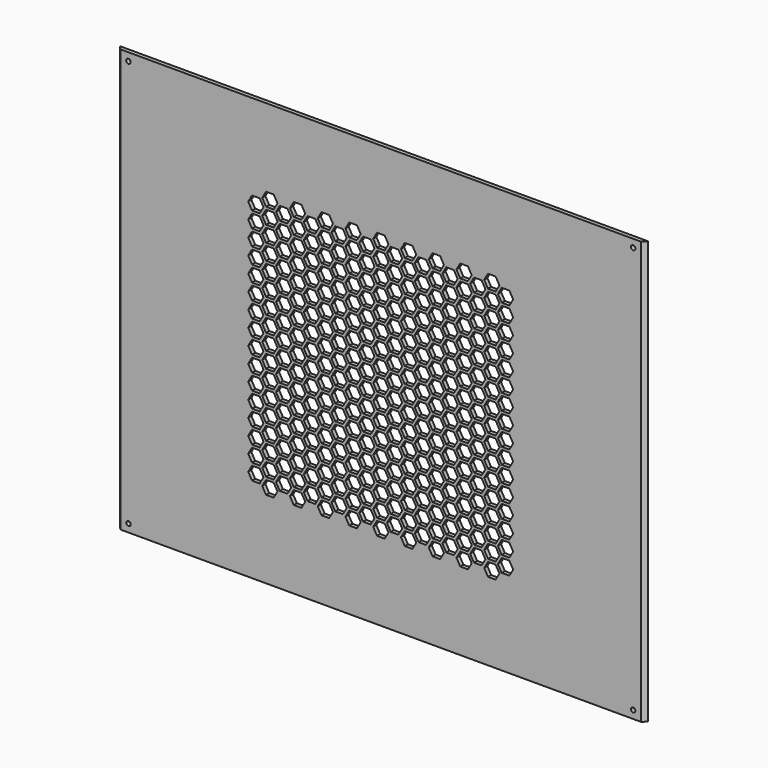
from build123d import *

# Parameters (mm, degrees)
F1_DEPTH = 320
F2_DEPTH = 320
F3_R     = 1.7
F4_DEPTH = 3
F6_DEPTH = 3


with BuildPart() as f1:
    # F0 (on Top) → F1 (new body)
    with BuildSketch(Plane.XY):
        Polygon((140, 1.5), (0, 1.5), (-140, 1.5), (-140, 0), (-140, -1.5), (0, -1.5), (140, -1.5), (140, 0), align=None)
    extrude(amount=-F1_DEPTH)

    # F0 (on Top) → F2 (join)
    with BuildSketch(Plane.XY):
        Polygon((-140, 0), (-140, 1.5), (-200, 1.5), (-197, -1.5), (-140, -1.5), align=None)
        Polygon((200, 1.5), (140, 1.5), (140, 0), (140, -1.5), (197, -1.5), align=None)
    extrude(amount=-F2_DEPTH)

    # F3 (on face) → F4 (cut)
    with BuildSketch(Plane.XZ.offset(1.5)):
        with Locations((191, -6)):
            Circle(F3_R)
        with Locations((191, -314)):
            Circle(F3_R)
        with Locations((-191, -314)):
            Circle(F3_R)
        with Locations((-191, -6)):
            Circle(F3_R)
    extrude(amount=-F4_DEPTH, mode=Mode.SUBTRACT)

    # F5 (on face) → F6 (cut)
    with BuildSketch(Plane.XZ.offset(1.5)):
        Polygon((-81.113249, -69), (-78.226497, -64), (-81.113249, -59), (-86.886751, -59), (-89.773503, -64), (-86.886751, -69), align=None)
        Polygon((-88.834192, -70), (-91.720944, -65), (-97.494447, -65), (-100.381198, -70), (-97.494447, -75), (-91.720944, -75), align=None)
        Polygon((-81.113249, -81), (-78.226497, -76), (-81.113249, -71), (-86.886751, -71), (-89.773503, -76), (-86.886751, -81), align=None)
        Polygon((-88.834192, -82), (-91.720944, -77), (-97.494447, -77), (-100.381198, -82), (-97.494447, -87), (-91.720944, -87), align=None)
        Polygon((-67.834192, -70), (-70.720944, -65), (-76.494447, -65), (-79.381198, -70), (-76.494447, -75), (-70.720944, -75), align=None)
        Polygon((65.886751, -93), (68.773503, -88), (65.886751, -83), (60.113249, -83), (57.226497, -88), (60.113249, -93), align=None)
        Polygon((100.165808, -202), (97.279056, -197), (91.505553, -197), (88.618802, -202), (91.505553, -207), (97.279056, -207), align=None)
        Polygon((23.886751, -81), (26.773503, -76), (23.886751, -71), (18.113249, -71), (15.226497, -76), (18.113249, -81), align=None)
        Polygon((-67.834192, -94), (-70.720944, -89), (-76.494447, -89), (-79.381198, -94), (-76.494447, -99), (-70.720944, -99), align=None)
        Polygon((-60.113249, -189), (-57.226497, -184), (-60.113249, -179), (-65.886751, -179), (-68.773503, -184), (-65.886751, -189), align=None)
        Polygon((-67.834192, -190), (-70.720944, -185), (-76.494447, -185), (-79.381198, -190), (-76.494447, -195), (-70.720944, -195), align=None)
        Polygon((-18.113249, -201), (-15.226497, -196), (-18.113249, -191), (-23.886751, -191), (-26.773503, -196), (-23.886751, -201), align=None)
        Polygon((-88.834192, -106), (-91.720944, -101), (-97.494447, -101), (-100.381198, -106), (-97.494447, -111), (-91.720944, -111), align=None)
        Polygon((-25.834192, -106), (-28.720944, -101), (-34.494447, -101), (-37.381198, -106), (-34.494447, -111), (-28.720944, -111), align=None)
        Polygon((-25.834192, -202), (-28.720944, -197), (-34.494447, -197), (-37.381198, -202), (-34.494447, -207), (-28.720944, -207), align=None)
        Polygon((23.886751, -213), (26.773503, -208), (23.886751, -203), (18.113249, -203), (15.226497, -208), (18.113249, -213), align=None)
        Polygon((-60.113249, -93), (-57.226497, -88), (-60.113249, -83), (-65.886751, -83), (-68.773503, -88), (-65.886751, -93), align=None)
        Polygon((16.165808, -118), (13.279056, -113), (7.505553, -113), (4.618802, -118), (7.505553, -123), (13.279056, -123), align=None)
        Polygon((16.165808, -214), (13.279056, -209), (7.505553, -209), (4.618802, -214), (7.505553, -219), (13.279056, -219), align=None)
        Polygon((-18.113249, -105), (-15.226497, -100), (-18.113249, -95), (-23.886751, -95), (-26.773503, -100), (-23.886751, -105), align=None)
        Polygon((65.886751, -225), (68.773503, -220), (65.886751, -215), (60.113249, -215), (57.226497, -220), (60.113249, -225), align=None)
        Polygon((58.165808, -226), (55.279056, -221), (49.505553, -221), (46.618802, -226), (49.505553, -231), (55.279056, -231), align=None)
        Polygon((58.165808, -130), (55.279056, -125), (49.505553, -125), (46.618802, -130), (49.505553, -135), (55.279056, -135), align=None)
        Polygon((23.886751, -117), (26.773503, -112), (23.886751, -107), (18.113249, -107), (15.226497, -112), (18.113249, -117), align=None)
        Polygon((65.886751, -129), (68.773503, -124), (65.886751, -119), (60.113249, -119), (57.226497, -124), (60.113249, -129), align=None)
        Polygon((100.165808, -238), (97.279056, -233), (91.505553, -233), (88.618802, -238), (91.505553, -243), (97.279056, -243), align=None)
        Polygon((-39.113249, -93), (-36.226497, -88), (-39.113249, -83), (-44.886751, -83), (-47.773503, -88), (-44.886751, -93), align=None)
        Polygon((-4.834192, -202), (-7.720944, -197), (-13.494447, -197), (-16.381198, -202), (-13.494447, -207), (-7.720944, -207), align=None)
        Polygon((-39.113249, -189), (-36.226497, -184), (-39.113249, -179), (-44.886751, -179), (-47.773503, -184), (-44.886751, -189), align=None)
        Polygon((-46.834192, -94), (-49.720944, -89), (-55.494447, -89), (-58.381198, -94), (-55.494447, -99), (-49.720944, -99), align=None)
        Polygon((37.165808, -214), (34.279056, -209), (28.505553, -209), (25.618802, -214), (28.505553, -219), (34.279056, -219), align=None)
        Polygon((2.886751, -105), (5.773503, -100), (2.886751, -95), (-2.886751, -95), (-5.773503, -100), (-2.886751, -105), align=None)
        Polygon((-4.834192, -106), (-7.720944, -101), (-13.494447, -101), (-16.381198, -106), (-13.494447, -111), (-7.720944, -111), align=None)
        Polygon((2.886751, -201), (5.773503, -196), (2.886751, -191), (-2.886751, -191), (-5.773503, -196), (-2.886751, -201), align=None)
        Polygon((79.165808, -226), (76.279056, -221), (70.505553, -221), (67.618802, -226), (70.505553, -231), (76.279056, -231), align=None)
        Polygon((44.886751, -117), (47.773503, -112), (44.886751, -107), (39.113249, -107), (36.226497, -112), (39.113249, -117), align=None)
        Polygon((44.886751, -213), (47.773503, -208), (44.886751, -203), (39.113249, -203), (36.226497, -208), (39.113249, -213), align=None)
        Polygon((37.165808, -118), (34.279056, -113), (28.505553, -113), (25.618802, -118), (28.505553, -123), (34.279056, -123), align=None)
        Polygon((86.886751, -225), (89.773503, -220), (86.886751, -215), (81.113249, -215), (78.226497, -220), (81.113249, -225), align=None)
        Polygon((79.165808, -130), (76.279056, -125), (70.505553, -125), (67.618802, -130), (70.505553, -135), (76.279056, -135), align=None)
        Polygon((-46.834192, -190), (-49.720944, -185), (-55.494447, -185), (-58.381198, -190), (-55.494447, -195), (-49.720944, -195), align=None)
        Polygon((-81.113249, -177), (-78.226497, -172), (-81.113249, -167), (-86.886751, -167), (-89.773503, -172), (-86.886751, -177), align=None)
        Polygon((-88.834192, -94), (-91.720944, -89), (-97.494447, -89), (-100.381198, -94), (-97.494447, -99), (-91.720944, -99), align=None)
        Polygon((23.886751, -201), (26.773503, -196), (23.886751, -191), (18.113249, -191), (15.226497, -196), (18.113249, -201), align=None)
        Polygon((16.165808, -106), (13.279056, -101), (7.505553, -101), (4.618802, -106), (7.505553, -111), (13.279056, -111), align=None)
        Polygon((16.165808, -202), (13.279056, -197), (7.505553, -197), (4.618802, -202), (7.505553, -207), (13.279056, -207), align=None)
        Polygon((-18.113249, -93), (-15.226497, -88), (-18.113249, -83), (-23.886751, -83), (-26.773503, -88), (-23.886751, -93), align=None)
        Polygon((65.886751, -213), (68.773503, -208), (65.886751, -203), (60.113249, -203), (57.226497, -208), (60.113249, -213), align=None)
        Polygon((58.165808, -214), (55.279056, -209), (49.505553, -209), (46.618802, -214), (49.505553, -219), (55.279056, -219), align=None)
        Polygon((58.165808, -118), (55.279056, -113), (49.505553, -113), (46.618802, -118), (49.505553, -123), (55.279056, -123), align=None)
        Polygon((23.886751, -105), (26.773503, -100), (23.886751, -95), (18.113249, -95), (15.226497, -100), (18.113249, -105), align=None)
        Polygon((100.165808, -226), (97.279056, -221), (91.505553, -221), (88.618802, -226), (91.505553, -231), (97.279056, -231), align=None)
        Polygon((65.886751, -117), (68.773503, -112), (65.886751, -107), (60.113249, -107), (57.226497, -112), (60.113249, -117), align=None)
        Polygon((-60.113249, -177), (-57.226497, -172), (-60.113249, -167), (-65.886751, -167), (-68.773503, -172), (-65.886751, -177), align=None)
        Polygon((-67.834192, -82), (-70.720944, -77), (-76.494447, -77), (-79.381198, -82), (-76.494447, -87), (-70.720944, -87), align=None)
        Polygon((-67.834192, -178), (-70.720944, -173), (-76.494447, -173), (-79.381198, -178), (-76.494447, -183), (-70.720944, -183), align=None)
        Polygon((-18.113249, -189), (-15.226497, -184), (-18.113249, -179), (-23.886751, -179), (-26.773503, -184), (-23.886751, -189), align=None)
        Polygon((-25.834192, -94), (-28.720944, -89), (-34.494447, -89), (-37.381198, -94), (-34.494447, -99), (-28.720944, -99), align=None)
        Polygon((-60.113249, -81), (-57.226497, -76), (-60.113249, -71), (-65.886751, -71), (-68.773503, -76), (-65.886751, -81), align=None)
        Polygon((-25.834192, -190), (-28.720944, -185), (-34.494447, -185), (-37.381198, -190), (-34.494447, -195), (-28.720944, -195), align=None)
        Polygon((79.165808, -214), (76.279056, -209), (70.505553, -209), (67.618802, -214), (70.505553, -219), (76.279056, -219), align=None)
        Polygon((44.886751, -105), (47.773503, -100), (44.886751, -95), (39.113249, -95), (36.226497, -100), (39.113249, -105), align=None)
        Polygon((44.886751, -201), (47.773503, -196), (44.886751, -191), (39.113249, -191), (36.226497, -196), (39.113249, -201), align=None)
        Polygon((37.165808, -106), (34.279056, -101), (28.505553, -101), (25.618802, -106), (28.505553, -111), (34.279056, -111), align=None)
        Polygon((86.886751, -213), (89.773503, -208), (86.886751, -203), (81.113249, -203), (78.226497, -208), (81.113249, -213), align=None)
        Polygon((79.165808, -118), (76.279056, -113), (70.505553, -113), (67.618802, -118), (70.505553, -123), (76.279056, -123), align=None)
        Polygon((-46.834192, -178), (-49.720944, -173), (-55.494447, -173), (-58.381198, -178), (-55.494447, -183), (-49.720944, -183), align=None)
        Polygon((-81.113249, -165), (-78.226497, -160), (-81.113249, -155), (-86.886751, -155), (-89.773503, -160), (-86.886751, -165), align=None)
        Polygon((-4.834192, -190), (-7.720944, -185), (-13.494447, -185), (-16.381198, -190), (-13.494447, -195), (-7.720944, -195), align=None)
        Polygon((-39.113249, -81), (-36.226497, -76), (-39.113249, -71), (-44.886751, -71), (-47.773503, -76), (-44.886751, -81), align=None)
        Polygon((-39.113249, -177), (-36.226497, -172), (-39.113249, -167), (-44.886751, -167), (-47.773503, -172), (-44.886751, -177), align=None)
        Polygon((-46.834192, -82), (-49.720944, -77), (-55.494447, -77), (-58.381198, -82), (-55.494447, -87), (-49.720944, -87), align=None)
        Polygon((37.165808, -202), (34.279056, -197), (28.505553, -197), (25.618802, -202), (28.505553, -207), (34.279056, -207), align=None)
        Polygon((2.886751, -93), (5.773503, -88), (2.886751, -83), (-2.886751, -83), (-5.773503, -88), (-2.886751, -93), align=None)
        Polygon((2.886751, -189), (5.773503, -184), (2.886751, -179), (-2.886751, -179), (-5.773503, -184), (-2.886751, -189), align=None)
        Polygon((-4.834192, -94), (-7.720944, -89), (-13.494447, -89), (-16.381198, -94), (-13.494447, -99), (-7.720944, -99), align=None)
        Polygon((65.886751, -105), (68.773503, -100), (65.886751, -95), (60.113249, -95), (57.226497, -100), (60.113249, -105), align=None)
        Polygon((100.165808, -214), (97.279056, -209), (91.505553, -209), (88.618802, -214), (91.505553, -219), (97.279056, -219), align=None)
        Polygon((-88.834192, -250), (-91.720944, -245), (-97.494447, -245), (-100.381198, -250), (-97.494447, -255), (-91.720944, -255), align=None)
        Polygon((-60.113249, -165), (-57.226497, -160), (-60.113249, -155), (-65.886751, -155), (-68.773503, -160), (-65.886751, -165), align=None)
        Polygon((-67.834192, -166), (-70.720944, -161), (-76.494447, -161), (-79.381198, -166), (-76.494447, -171), (-70.720944, -171), align=None)
        Polygon((-81.113249, -261), (-78.226497, -256), (-81.113249, -251), (-86.886751, -251), (-89.773503, -256), (-86.886751, -261), align=None)
        Polygon((-25.834192, -82), (-28.720944, -77), (-34.494447, -77), (-37.381198, -82), (-34.494447, -87), (-28.720944, -87), align=None)
        Polygon((-18.113249, -177), (-15.226497, -172), (-18.113249, -167), (-23.886751, -167), (-26.773503, -172), (-23.886751, -177), align=None)
        Polygon((-25.834192, -178), (-28.720944, -173), (-34.494447, -173), (-37.381198, -178), (-34.494447, -183), (-28.720944, -183), align=None)
        Polygon((-60.113249, -69), (-57.226497, -64), (-60.113249, -59), (-65.886751, -59), (-68.773503, -64), (-65.886751, -69), align=None)
        Polygon((23.886751, -189), (26.773503, -184), (23.886751, -179), (18.113249, -179), (15.226497, -184), (18.113249, -189), align=None)
        Polygon((16.165808, -94), (13.279056, -89), (7.505553, -89), (4.618802, -94), (7.505553, -99), (13.279056, -99), align=None)
        Polygon((16.165808, -190), (13.279056, -185), (7.505553, -185), (4.618802, -190), (7.505553, -195), (13.279056, -195), align=None)
        Polygon((-18.113249, -81), (-15.226497, -76), (-18.113249, -71), (-23.886751, -71), (-26.773503, -76), (-23.886751, -81), align=None)
        Polygon((65.886751, -201), (68.773503, -196), (65.886751, -191), (60.113249, -191), (57.226497, -196), (60.113249, -201), align=None)
        Polygon((58.165808, -202), (55.279056, -197), (49.505553, -197), (46.618802, -202), (49.505553, -207), (55.279056, -207), align=None)
        Polygon((58.165808, -106), (55.279056, -101), (49.505553, -101), (46.618802, -106), (49.505553, -111), (55.279056, -111), align=None)
        Polygon((-88.834192, -238), (-91.720944, -233), (-97.494447, -233), (-100.381198, -238), (-97.494447, -243), (-91.720944, -243), align=None)
        Polygon((23.886751, -93), (26.773503, -88), (23.886751, -83), (18.113249, -83), (15.226497, -88), (18.113249, -93), align=None)
        Polygon((-46.834192, -166), (-49.720944, -161), (-55.494447, -161), (-58.381198, -166), (-55.494447, -171), (-49.720944, -171), align=None)
        Polygon((-60.113249, -261), (-57.226497, -256), (-60.113249, -251), (-65.886751, -251), (-68.773503, -256), (-65.886751, -261), align=None)
        Polygon((-81.113249, -153), (-78.226497, -148), (-81.113249, -143), (-86.886751, -143), (-89.773503, -148), (-86.886751, -153), align=None)
        Polygon((65.886751, -189), (68.773503, -184), (65.886751, -179), (60.113249, -179), (57.226497, -184), (60.113249, -189), align=None)
        Polygon((58.165808, -190), (55.279056, -185), (49.505553, -185), (46.618802, -190), (49.505553, -195), (55.279056, -195), align=None)
        Polygon((58.165808, -94), (55.279056, -89), (49.505553, -89), (46.618802, -94), (49.505553, -99), (55.279056, -99), align=None)
        Polygon((-18.113249, -69), (-15.226497, -64), (-18.113249, -59), (-23.886751, -59), (-26.773503, -64), (-23.886751, -69), align=None)
        Polygon((16.165808, -82), (13.279056, -77), (7.505553, -77), (4.618802, -82), (7.505553, -87), (13.279056, -87), align=None)
        Polygon((16.165808, -178), (13.279056, -173), (7.505553, -173), (4.618802, -178), (7.505553, -183), (13.279056, -183), align=None)
        Polygon((23.886751, -177), (26.773503, -172), (23.886751, -167), (18.113249, -167), (15.226497, -172), (18.113249, -177), align=None)
        Polygon((-39.113249, -261), (-36.226497, -256), (-39.113249, -251), (-44.886751, -251), (-47.773503, -256), (-44.886751, -261), align=None)
        Polygon((-25.834192, -166), (-28.720944, -161), (-34.494447, -161), (-37.381198, -166), (-34.494447, -171), (-28.720944, -171), align=None)
        Polygon((-25.834192, -70), (-28.720944, -65), (-34.494447, -65), (-37.381198, -70), (-34.494447, -75), (-28.720944, -75), align=None)
        Polygon((-18.113249, -165), (-15.226497, -160), (-18.113249, -155), (-23.886751, -155), (-26.773503, -160), (-23.886751, -165), align=None)
        Polygon((-67.834192, -250), (-70.720944, -245), (-76.494447, -245), (-79.381198, -250), (-76.494447, -255), (-70.720944, -255), align=None)
        Polygon((-67.834192, -154), (-70.720944, -149), (-76.494447, -149), (-79.381198, -154), (-76.494447, -159), (-70.720944, -159), align=None)
        Polygon((-60.113249, -249), (-57.226497, -244), (-60.113249, -239), (-65.886751, -239), (-68.773503, -244), (-65.886751, -249), align=None)
        Polygon((-60.113249, -153), (-57.226497, -148), (-60.113249, -143), (-65.886751, -143), (-68.773503, -148), (-65.886751, -153), align=None)
        Polygon((-88.834192, -226), (-91.720944, -221), (-97.494447, -221), (-100.381198, -226), (-97.494447, -231), (-91.720944, -231), align=None)
        Polygon((79.165808, -106), (76.279056, -101), (70.505553, -101), (67.618802, -106), (70.505553, -111), (76.279056, -111), align=None)
        Polygon((86.886751, -201), (89.773503, -196), (86.886751, -191), (81.113249, -191), (78.226497, -196), (81.113249, -201), align=None)
        Polygon((44.886751, -93), (47.773503, -88), (44.886751, -83), (39.113249, -83), (36.226497, -88), (39.113249, -93), align=None)
        Polygon((37.165808, -94), (34.279056, -89), (28.505553, -89), (25.618802, -94), (28.505553, -99), (34.279056, -99), align=None)
        Polygon((44.886751, -189), (47.773503, -184), (44.886751, -179), (39.113249, -179), (36.226497, -184), (39.113249, -189), align=None)
        Polygon((79.165808, -202), (76.279056, -197), (70.505553, -197), (67.618802, -202), (70.505553, -207), (76.279056, -207), align=None)
        Polygon((-4.834192, -82), (-7.720944, -77), (-13.494447, -77), (-16.381198, -82), (-13.494447, -87), (-7.720944, -87), align=None)
        Polygon((2.886751, -81), (5.773503, -76), (2.886751, -71), (-2.886751, -71), (-5.773503, -76), (-2.886751, -81), align=None)
        Polygon((2.886751, -177), (5.773503, -172), (2.886751, -167), (-2.886751, -167), (-5.773503, -172), (-2.886751, -177), align=None)
        Polygon((37.165808, -190), (34.279056, -185), (28.505553, -185), (25.618802, -190), (28.505553, -195), (34.279056, -195), align=None)
        Polygon((-39.113249, -69), (-36.226497, -64), (-39.113249, -59), (-44.886751, -59), (-47.773503, -64), (-44.886751, -69), align=None)
        Polygon((-4.834192, -178), (-7.720944, -173), (-13.494447, -173), (-16.381198, -178), (-13.494447, -183), (-7.720944, -183), align=None)
        Polygon((-46.834192, -70), (-49.720944, -65), (-55.494447, -65), (-58.381198, -70), (-55.494447, -75), (-49.720944, -75), align=None)
        Polygon((-39.113249, -165), (-36.226497, -160), (-39.113249, -155), (-44.886751, -155), (-47.773503, -160), (-44.886751, -165), align=None)
        Polygon((-81.113249, -249), (-78.226497, -244), (-81.113249, -239), (-86.886751, -239), (-89.773503, -244), (-86.886751, -249), align=None)
        Polygon((-81.113249, -141), (-78.226497, -136), (-81.113249, -131), (-86.886751, -131), (-89.773503, -136), (-86.886751, -141), align=None)
        Polygon((-81.113249, -237), (-78.226497, -232), (-81.113249, -227), (-86.886751, -227), (-89.773503, -232), (-86.886751, -237), align=None)
        Polygon((-88.834192, -214), (-91.720944, -209), (-97.494447, -209), (-100.381198, -214), (-97.494447, -219), (-91.720944, -219), align=None)
        Polygon((-39.113249, -153), (-36.226497, -148), (-39.113249, -143), (-44.886751, -143), (-47.773503, -148), (-44.886751, -153), align=None)
        Polygon((-39.113249, -249), (-36.226497, -244), (-39.113249, -239), (-44.886751, -239), (-47.773503, -244), (-44.886751, -249), align=None)
        Polygon((-46.834192, -154), (-49.720944, -149), (-55.494447, -149), (-58.381198, -154), (-55.494447, -159), (-49.720944, -159), align=None)
        Polygon((-46.834192, -250), (-49.720944, -245), (-55.494447, -245), (-58.381198, -250), (-55.494447, -255), (-49.720944, -255), align=None)
        Polygon((-4.834192, -70), (-7.720944, -65), (-13.494447, -65), (-16.381198, -70), (-13.494447, -75), (-7.720944, -75), align=None)
        Polygon((-4.834192, -166), (-7.720944, -161), (-13.494447, -161), (-16.381198, -166), (-13.494447, -171), (-7.720944, -171), align=None)
        Polygon((-18.113249, -261), (-15.226497, -256), (-18.113249, -251), (-23.886751, -251), (-26.773503, -256), (-23.886751, -261), align=None)
        Polygon((44.886751, -177), (47.773503, -172), (44.886751, -167), (39.113249, -167), (36.226497, -172), (39.113249, -177), align=None)
        Polygon((37.165808, -82), (34.279056, -77), (28.505553, -77), (25.618802, -82), (28.505553, -87), (34.279056, -87), align=None)
        Polygon((2.886751, -69), (5.773503, -64), (2.886751, -59), (-2.886751, -59), (-5.773503, -64), (-2.886751, -69), align=None)
        Polygon((37.165808, -178), (34.279056, -173), (28.505553, -173), (25.618802, -178), (28.505553, -183), (34.279056, -183), align=None)
        Polygon((86.886751, -189), (89.773503, -184), (86.886751, -179), (81.113249, -179), (78.226497, -184), (81.113249, -189), align=None)
        Polygon((79.165808, -94), (76.279056, -89), (70.505553, -89), (67.618802, -94), (70.505553, -99), (76.279056, -99), align=None)
        Polygon((79.165808, -190), (76.279056, -185), (70.505553, -185), (67.618802, -190), (70.505553, -195), (76.279056, -195), align=None)
        Polygon((44.886751, -81), (47.773503, -76), (44.886751, -71), (39.113249, -71), (36.226497, -76), (39.113249, -81), align=None)
        Polygon((-67.834192, -142), (-70.720944, -137), (-76.494447, -137), (-79.381198, -142), (-76.494447, -147), (-70.720944, -147), align=None)
        Polygon((-67.834192, -238), (-70.720944, -233), (-76.494447, -233), (-79.381198, -238), (-76.494447, -243), (-70.720944, -243), align=None)
        Polygon((-88.834192, -202), (-91.720944, -197), (-97.494447, -197), (-100.381198, -202), (-97.494447, -207), (-91.720944, -207), align=None)
        Polygon((-25.834192, -154), (-28.720944, -149), (-34.494447, -149), (-37.381198, -154), (-34.494447, -159), (-28.720944, -159), align=None)
        Polygon((-25.834192, -250), (-28.720944, -245), (-34.494447, -245), (-37.381198, -250), (-34.494447, -255), (-28.720944, -255), align=None)
        Polygon((-60.113249, -141), (-57.226497, -136), (-60.113249, -131), (-65.886751, -131), (-68.773503, -136), (-65.886751, -141), align=None)
        Polygon((-60.113249, -237), (-57.226497, -232), (-60.113249, -227), (-65.886751, -227), (-68.773503, -232), (-65.886751, -237), align=None)
        Polygon((16.165808, -166), (13.279056, -161), (7.505553, -161), (4.618802, -166), (7.505553, -171), (13.279056, -171), align=None)
        Polygon((2.886751, -261), (5.773503, -256), (2.886751, -251), (-2.886751, -251), (-5.773503, -256), (-2.886751, -261), align=None)
        Polygon((58.165808, -178), (55.279056, -173), (49.505553, -173), (46.618802, -178), (49.505553, -183), (55.279056, -183), align=None)
        Polygon((-18.113249, -153), (-15.226497, -148), (-18.113249, -143), (-23.886751, -143), (-26.773503, -148), (-23.886751, -153), align=None)
        Polygon((23.886751, -69), (26.773503, -64), (23.886751, -59), (18.113249, -59), (15.226497, -64), (18.113249, -69), align=None)
        Polygon((-18.113249, -249), (-15.226497, -244), (-18.113249, -239), (-23.886751, -239), (-26.773503, -244), (-23.886751, -249), align=None)
        Polygon((23.886751, -165), (26.773503, -160), (23.886751, -155), (18.113249, -155), (15.226497, -160), (18.113249, -165), align=None)
        Polygon((16.165808, -70), (13.279056, -65), (7.505553, -65), (4.618802, -70), (7.505553, -75), (13.279056, -75), align=None)
        Polygon((100.165808, -190), (97.279056, -185), (91.505553, -185), (88.618802, -190), (91.505553, -195), (97.279056, -195), align=None)
        Polygon((65.886751, -81), (68.773503, -76), (65.886751, -71), (60.113249, -71), (57.226497, -76), (60.113249, -81), align=None)
        Polygon((58.165808, -82), (55.279056, -77), (49.505553, -77), (46.618802, -82), (49.505553, -87), (55.279056, -87), align=None)
        Polygon((65.886751, -177), (68.773503, -172), (65.886751, -167), (60.113249, -167), (57.226497, -172), (60.113249, -177), align=None)
        Polygon((-81.113249, -129), (-78.226497, -124), (-81.113249, -119), (-86.886751, -119), (-89.773503, -124), (-86.886751, -129), align=None)
        Polygon((-81.113249, -225), (-78.226497, -220), (-81.113249, -215), (-86.886751, -215), (-89.773503, -220), (-86.886751, -225), align=None)
        Polygon((-88.834192, -190), (-91.720944, -185), (-97.494447, -185), (-100.381198, -190), (-97.494447, -195), (-91.720944, -195), align=None)
        Polygon((-39.113249, -237), (-36.226497, -232), (-39.113249, -227), (-44.886751, -227), (-47.773503, -232), (-44.886751, -237), align=None)
        Polygon((-39.113249, -141), (-36.226497, -136), (-39.113249, -131), (-44.886751, -131), (-47.773503, -136), (-44.886751, -141), align=None)
        Polygon((-46.834192, -142), (-49.720944, -137), (-55.494447, -137), (-58.381198, -142), (-55.494447, -147), (-49.720944, -147), align=None)
        Polygon((-46.834192, -238), (-49.720944, -233), (-55.494447, -233), (-58.381198, -238), (-55.494447, -243), (-49.720944, -243), align=None)
        Polygon((2.886751, -153), (5.773503, -148), (2.886751, -143), (-2.886751, -143), (-5.773503, -148), (-2.886751, -153), align=None)
        Polygon((2.886751, -249), (5.773503, -244), (2.886751, -239), (-2.886751, -239), (-5.773503, -244), (-2.886751, -249), align=None)
        Polygon((-4.834192, -250), (-7.720944, -245), (-13.494447, -245), (-16.381198, -250), (-13.494447, -255), (-7.720944, -255), align=None)
        Polygon((-4.834192, -154), (-7.720944, -149), (-13.494447, -149), (-16.381198, -154), (-13.494447, -159), (-7.720944, -159), align=None)
        Polygon((44.886751, -165), (47.773503, -160), (44.886751, -155), (39.113249, -155), (36.226497, -160), (39.113249, -165), align=None)
        Polygon((37.165808, -166), (34.279056, -161), (28.505553, -161), (25.618802, -166), (28.505553, -171), (34.279056, -171), align=None)
        Polygon((37.165808, -70), (34.279056, -65), (28.505553, -65), (25.618802, -70), (28.505553, -75), (34.279056, -75), align=None)
        Polygon((23.886751, -261), (26.773503, -256), (23.886751, -251), (18.113249, -251), (15.226497, -256), (18.113249, -261), align=None)
        Polygon((86.886751, -177), (89.773503, -172), (86.886751, -167), (81.113249, -167), (78.226497, -172), (81.113249, -177), align=None)
        Polygon((79.165808, -82), (76.279056, -77), (70.505553, -77), (67.618802, -82), (70.505553, -87), (76.279056, -87), align=None)
        Polygon((79.165808, -178), (76.279056, -173), (70.505553, -173), (67.618802, -178), (70.505553, -183), (76.279056, -183), align=None)
        Polygon((44.886751, -69), (47.773503, -64), (44.886751, -59), (39.113249, -59), (36.226497, -64), (39.113249, -69), align=None)
        Polygon((-67.834192, -130), (-70.720944, -125), (-76.494447, -125), (-79.381198, -130), (-76.494447, -135), (-70.720944, -135), align=None)
        Polygon((-67.834192, -226), (-70.720944, -221), (-76.494447, -221), (-79.381198, -226), (-76.494447, -231), (-70.720944, -231), align=None)
        Polygon((-88.834192, -178), (-91.720944, -173), (-97.494447, -173), (-100.381198, -178), (-97.494447, -183), (-91.720944, -183), align=None)
        Polygon((-25.834192, -142), (-28.720944, -137), (-34.494447, -137), (-37.381198, -142), (-34.494447, -147), (-28.720944, -147), align=None)
        Polygon((-25.834192, -238), (-28.720944, -233), (-34.494447, -233), (-37.381198, -238), (-34.494447, -243), (-28.720944, -243), align=None)
        Polygon((-60.113249, -129), (-57.226497, -124), (-60.113249, -119), (-65.886751, -119), (-68.773503, -124), (-65.886751, -129), align=None)
        Polygon((16.165808, -154), (13.279056, -149), (7.505553, -149), (4.618802, -154), (7.505553, -159), (13.279056, -159), align=None)
        Polygon((-60.113249, -225), (-57.226497, -220), (-60.113249, -215), (-65.886751, -215), (-68.773503, -220), (-65.886751, -225), align=None)
        Polygon((16.165808, -250), (13.279056, -245), (7.505553, -245), (4.618802, -250), (7.505553, -255), (13.279056, -255), align=None)
        Polygon((-18.113249, -237), (-15.226497, -232), (-18.113249, -227), (-23.886751, -227), (-26.773503, -232), (-23.886751, -237), align=None)
        Polygon((-18.113249, -141), (-15.226497, -136), (-18.113249, -131), (-23.886751, -131), (-26.773503, -136), (-23.886751, -141), align=None)
        Polygon((58.165808, -166), (55.279056, -161), (49.505553, -161), (46.618802, -166), (49.505553, -171), (55.279056, -171), align=None)
        Polygon((44.886751, -261), (47.773503, -256), (44.886751, -251), (39.113249, -251), (36.226497, -256), (39.113249, -261), align=None)
        Polygon((23.886751, -153), (26.773503, -148), (23.886751, -143), (18.113249, -143), (15.226497, -148), (18.113249, -153), align=None)
        Polygon((23.886751, -249), (26.773503, -244), (23.886751, -239), (18.113249, -239), (15.226497, -244), (18.113249, -249), align=None)
        Polygon((100.165808, -178), (97.279056, -173), (91.505553, -173), (88.618802, -178), (91.505553, -183), (97.279056, -183), align=None)
        Polygon((65.886751, -69), (68.773503, -64), (65.886751, -59), (60.113249, -59), (57.226497, -64), (60.113249, -69), align=None)
        Polygon((65.886751, -165), (68.773503, -160), (65.886751, -155), (60.113249, -155), (57.226497, -160), (60.113249, -165), align=None)
        Polygon((58.165808, -70), (55.279056, -65), (49.505553, -65), (46.618802, -70), (49.505553, -75), (55.279056, -75), align=None)
        Polygon((-81.113249, -117), (-78.226497, -112), (-81.113249, -107), (-86.886751, -107), (-89.773503, -112), (-86.886751, -117), align=None)
        Polygon((-81.113249, -213), (-78.226497, -208), (-81.113249, -203), (-86.886751, -203), (-89.773503, -208), (-86.886751, -213), align=None)
        Polygon((-88.834192, -166), (-91.720944, -161), (-97.494447, -161), (-100.381198, -166), (-97.494447, -171), (-91.720944, -171), align=None)
        Polygon((-39.113249, -129), (-36.226497, -124), (-39.113249, -119), (-44.886751, -119), (-47.773503, -124), (-44.886751, -129), align=None)
        Polygon((-39.113249, -225), (-36.226497, -220), (-39.113249, -215), (-44.886751, -215), (-47.773503, -220), (-44.886751, -225), align=None)
        Polygon((-46.834192, -130), (-49.720944, -125), (-55.494447, -125), (-58.381198, -130), (-55.494447, -135), (-49.720944, -135), align=None)
        Polygon((-46.834192, -226), (-49.720944, -221), (-55.494447, -221), (-58.381198, -226), (-55.494447, -231), (-49.720944, -231), align=None)
        Polygon((2.886751, -141), (5.773503, -136), (2.886751, -131), (-2.886751, -131), (-5.773503, -136), (-2.886751, -141), align=None)
        Polygon((2.886751, -237), (5.773503, -232), (2.886751, -227), (-2.886751, -227), (-5.773503, -232), (-2.886751, -237), align=None)
        Polygon((-4.834192, -142), (-7.720944, -137), (-13.494447, -137), (-16.381198, -142), (-13.494447, -147), (-7.720944, -147), align=None)
        Polygon((-4.834192, -238), (-7.720944, -233), (-13.494447, -233), (-16.381198, -238), (-13.494447, -243), (-7.720944, -243), align=None)
        Polygon((44.886751, -153), (47.773503, -148), (44.886751, -143), (39.113249, -143), (36.226497, -148), (39.113249, -153), align=None)
        Polygon((44.886751, -249), (47.773503, -244), (44.886751, -239), (39.113249, -239), (36.226497, -244), (39.113249, -249), align=None)
        Polygon((37.165808, -154), (34.279056, -149), (28.505553, -149), (25.618802, -154), (28.505553, -159), (34.279056, -159), align=None)
        Polygon((37.165808, -250), (34.279056, -245), (28.505553, -245), (25.618802, -250), (28.505553, -255), (34.279056, -255), align=None)
        Polygon((86.886751, -165), (89.773503, -160), (86.886751, -155), (81.113249, -155), (78.226497, -160), (81.113249, -165), align=None)
        Polygon((79.165808, -70), (76.279056, -65), (70.505553, -65), (67.618802, -70), (70.505553, -75), (76.279056, -75), align=None)
        Polygon((79.165808, -166), (76.279056, -161), (70.505553, -161), (67.618802, -166), (70.505553, -171), (76.279056, -171), align=None)
        Polygon((65.886751, -261), (68.773503, -256), (65.886751, -251), (60.113249, -251), (57.226497, -256), (60.113249, -261), align=None)
        Polygon((-67.834192, -118), (-70.720944, -113), (-76.494447, -113), (-79.381198, -118), (-76.494447, -123), (-70.720944, -123), align=None)
        Polygon((-67.834192, -214), (-70.720944, -209), (-76.494447, -209), (-79.381198, -214), (-76.494447, -219), (-70.720944, -219), align=None)
        Polygon((-88.834192, -154), (-91.720944, -149), (-97.494447, -149), (-100.381198, -154), (-97.494447, -159), (-91.720944, -159), align=None)
        Polygon((-25.834192, -130), (-28.720944, -125), (-34.494447, -125), (-37.381198, -130), (-34.494447, -135), (-28.720944, -135), align=None)
        Polygon((-25.834192, -226), (-28.720944, -221), (-34.494447, -221), (-37.381198, -226), (-34.494447, -231), (-28.720944, -231), align=None)
        Polygon((-60.113249, -117), (-57.226497, -112), (-60.113249, -107), (-65.886751, -107), (-68.773503, -112), (-65.886751, -117), align=None)
        Polygon((-60.113249, -213), (-57.226497, -208), (-60.113249, -203), (-65.886751, -203), (-68.773503, -208), (-65.886751, -213), align=None)
        Polygon((16.165808, -142), (13.279056, -137), (7.505553, -137), (4.618802, -142), (7.505553, -147), (13.279056, -147), align=None)
        Polygon((-18.113249, -129), (-15.226497, -124), (-18.113249, -119), (-23.886751, -119), (-26.773503, -124), (-23.886751, -129), align=None)
        Polygon((16.165808, -238), (13.279056, -233), (7.505553, -233), (4.618802, -238), (7.505553, -243), (13.279056, -243), align=None)
        Polygon((-18.113249, -225), (-15.226497, -220), (-18.113249, -215), (-23.886751, -215), (-26.773503, -220), (-23.886751, -225), align=None)
        Polygon((58.165808, -250), (55.279056, -245), (49.505553, -245), (46.618802, -250), (49.505553, -255), (55.279056, -255), align=None)
        Polygon((58.165808, -154), (55.279056, -149), (49.505553, -149), (46.618802, -154), (49.505553, -159), (55.279056, -159), align=None)
        Polygon((23.886751, -141), (26.773503, -136), (23.886751, -131), (18.113249, -131), (15.226497, -136), (18.113249, -141), align=None)
        Polygon((23.886751, -237), (26.773503, -232), (23.886751, -227), (18.113249, -227), (15.226497, -232), (18.113249, -237), align=None)
        Polygon((100.165808, -166), (97.279056, -161), (91.505553, -161), (88.618802, -166), (91.505553, -171), (97.279056, -171), align=None)
        Polygon((86.886751, -261), (89.773503, -256), (86.886751, -251), (81.113249, -251), (78.226497, -256), (81.113249, -261), align=None)
        Polygon((65.886751, -153), (68.773503, -148), (65.886751, -143), (60.113249, -143), (57.226497, -148), (60.113249, -153), align=None)
        Polygon((65.886751, -249), (68.773503, -244), (65.886751, -239), (60.113249, -239), (57.226497, -244), (60.113249, -249), align=None)
        Polygon((-67.834192, -106), (-70.720944, -101), (-76.494447, -101), (-79.381198, -106), (-76.494447, -111), (-70.720944, -111), align=None)
        Polygon((-67.834192, -202), (-70.720944, -197), (-76.494447, -197), (-79.381198, -202), (-76.494447, -207), (-70.720944, -207), align=None)
        Polygon((-88.834192, -130), (-91.720944, -125), (-97.494447, -125), (-100.381198, -130), (-97.494447, -135), (-91.720944, -135), align=None)
        Polygon((-25.834192, -118), (-28.720944, -113), (-34.494447, -113), (-37.381198, -118), (-34.494447, -123), (-28.720944, -123), align=None)
        Polygon((-25.834192, -214), (-28.720944, -209), (-34.494447, -209), (-37.381198, -214), (-34.494447, -219), (-28.720944, -219), align=None)
        Polygon((-60.113249, -105), (-57.226497, -100), (-60.113249, -95), (-65.886751, -95), (-68.773503, -100), (-65.886751, -105), align=None)
        Polygon((-60.113249, -201), (-57.226497, -196), (-60.113249, -191), (-65.886751, -191), (-68.773503, -196), (-65.886751, -201), align=None)
        Polygon((16.165808, -130), (13.279056, -125), (7.505553, -125), (4.618802, -130), (7.505553, -135), (13.279056, -135), align=None)
        Polygon((16.165808, -226), (13.279056, -221), (7.505553, -221), (4.618802, -226), (7.505553, -231), (13.279056, -231), align=None)
        Polygon((-18.113249, -117), (-15.226497, -112), (-18.113249, -107), (-23.886751, -107), (-26.773503, -112), (-23.886751, -117), align=None)
        Polygon((-18.113249, -213), (-15.226497, -208), (-18.113249, -203), (-23.886751, -203), (-26.773503, -208), (-23.886751, -213), align=None)
        Polygon((58.165808, -142), (55.279056, -137), (49.505553, -137), (46.618802, -142), (49.505553, -147), (55.279056, -147), align=None)
        Polygon((58.165808, -238), (55.279056, -233), (49.505553, -233), (46.618802, -238), (49.505553, -243), (55.279056, -243), align=None)
        Polygon((23.886751, -225), (26.773503, -220), (23.886751, -215), (18.113249, -215), (15.226497, -220), (18.113249, -225), align=None)
        Polygon((23.886751, -129), (26.773503, -124), (23.886751, -119), (18.113249, -119), (15.226497, -124), (18.113249, -129), align=None)
        Polygon((100.165808, -250), (97.279056, -245), (91.505553, -245), (88.618802, -250), (91.505553, -255), (97.279056, -255), align=None)
        Polygon((65.886751, -141), (68.773503, -136), (65.886751, -131), (60.113249, -131), (57.226497, -136), (60.113249, -141), align=None)
        Polygon((65.886751, -237), (68.773503, -232), (65.886751, -227), (60.113249, -227), (57.226497, -232), (60.113249, -237), align=None)
        Polygon((-81.113249, -93), (-78.226497, -88), (-81.113249, -83), (-86.886751, -83), (-89.773503, -88), (-86.886751, -93), align=None)
        Polygon((-81.113249, -189), (-78.226497, -184), (-81.113249, -179), (-86.886751, -179), (-89.773503, -184), (-86.886751, -189), align=None)
        Polygon((-88.834192, -118), (-91.720944, -113), (-97.494447, -113), (-100.381198, -118), (-97.494447, -123), (-91.720944, -123), align=None)
        Polygon((-39.113249, -105), (-36.226497, -100), (-39.113249, -95), (-44.886751, -95), (-47.773503, -100), (-44.886751, -105), align=None)
        Polygon((-39.113249, -201), (-36.226497, -196), (-39.113249, -191), (-44.886751, -191), (-47.773503, -196), (-44.886751, -201), align=None)
        Polygon((-46.834192, -106), (-49.720944, -101), (-55.494447, -101), (-58.381198, -106), (-55.494447, -111), (-49.720944, -111), align=None)
        Polygon((-46.834192, -202), (-49.720944, -197), (-55.494447, -197), (-58.381198, -202), (-55.494447, -207), (-49.720944, -207), align=None)
        Polygon((2.886751, -117), (5.773503, -112), (2.886751, -107), (-2.886751, -107), (-5.773503, -112), (-2.886751, -117), align=None)
        Polygon((2.886751, -213), (5.773503, -208), (2.886751, -203), (-2.886751, -203), (-5.773503, -208), (-2.886751, -213), align=None)
        Polygon((-4.834192, -118), (-7.720944, -113), (-13.494447, -113), (-16.381198, -118), (-13.494447, -123), (-7.720944, -123), align=None)
        Polygon((-4.834192, -214), (-7.720944, -209), (-13.494447, -209), (-16.381198, -214), (-13.494447, -219), (-7.720944, -219), align=None)
        Polygon((44.886751, -129), (47.773503, -124), (44.886751, -119), (39.113249, -119), (36.226497, -124), (39.113249, -129), align=None)
        Polygon((44.886751, -225), (47.773503, -220), (44.886751, -215), (39.113249, -215), (36.226497, -220), (39.113249, -225), align=None)
        Polygon((37.165808, -130), (34.279056, -125), (28.505553, -125), (25.618802, -130), (28.505553, -135), (34.279056, -135), align=None)
        Polygon((37.165808, -226), (34.279056, -221), (28.505553, -221), (25.618802, -226), (28.505553, -231), (34.279056, -231), align=None)
        Polygon((86.886751, -237), (89.773503, -232), (86.886751, -227), (81.113249, -227), (78.226497, -232), (81.113249, -237), align=None)
        Polygon((79.165808, -142), (76.279056, -137), (70.505553, -137), (67.618802, -142), (70.505553, -147), (76.279056, -147), align=None)
        Polygon((79.165808, -238), (76.279056, -233), (70.505553, -233), (67.618802, -238), (70.505553, -243), (76.279056, -243), align=None)
        Polygon((86.886751, -249), (89.773503, -244), (86.886751, -239), (81.113249, -239), (78.226497, -244), (81.113249, -249), align=None)
        Polygon((79.165808, -154), (76.279056, -149), (70.505553, -149), (67.618802, -154), (70.505553, -159), (76.279056, -159), align=None)
        Polygon((79.165808, -250), (76.279056, -245), (70.505553, -245), (67.618802, -250), (70.505553, -255), (76.279056, -255), align=None)
        Polygon((44.886751, -141), (47.773503, -136), (44.886751, -131), (39.113249, -131), (36.226497, -136), (39.113249, -141), align=None)
        Polygon((-81.113249, -201), (-78.226497, -196), (-81.113249, -191), (-86.886751, -191), (-89.773503, -196), (-86.886751, -201), align=None)
        Polygon((-88.834192, -142), (-91.720944, -137), (-97.494447, -137), (-100.381198, -142), (-97.494447, -147), (-91.720944, -147), align=None)
        Polygon((-39.113249, -213), (-36.226497, -208), (-39.113249, -203), (-44.886751, -203), (-47.773503, -208), (-44.886751, -213), align=None)
        Polygon((-46.834192, -118), (-49.720944, -113), (-55.494447, -113), (-58.381198, -118), (-55.494447, -123), (-49.720944, -123), align=None)
        Polygon((-46.834192, -214), (-49.720944, -209), (-55.494447, -209), (-58.381198, -214), (-55.494447, -219), (-49.720944, -219), align=None)
        Polygon((-81.113249, -105), (-78.226497, -100), (-81.113249, -95), (-86.886751, -95), (-89.773503, -100), (-86.886751, -105), align=None)
        Polygon((2.886751, -225), (5.773503, -220), (2.886751, -215), (-2.886751, -215), (-5.773503, -220), (-2.886751, -225), align=None)
        Polygon((-4.834192, -130), (-7.720944, -125), (-13.494447, -125), (-16.381198, -130), (-13.494447, -135), (-7.720944, -135), align=None)
        Polygon((-4.834192, -226), (-7.720944, -221), (-13.494447, -221), (-16.381198, -226), (-13.494447, -231), (-7.720944, -231), align=None)
        Polygon((-39.113249, -117), (-36.226497, -112), (-39.113249, -107), (-44.886751, -107), (-47.773503, -112), (-44.886751, -117), align=None)
        Polygon((44.886751, -237), (47.773503, -232), (44.886751, -227), (39.113249, -227), (36.226497, -232), (39.113249, -237), align=None)
        Polygon((37.165808, -142), (34.279056, -137), (28.505553, -137), (25.618802, -142), (28.505553, -147), (34.279056, -147), align=None)
        Polygon((37.165808, -238), (34.279056, -233), (28.505553, -233), (25.618802, -238), (28.505553, -243), (34.279056, -243), align=None)
        Polygon((2.886751, -129), (5.773503, -124), (2.886751, -119), (-2.886751, -119), (-5.773503, -124), (-2.886751, -129), align=None)
        Polygon((100.165808, -142), (97.279056, -137), (91.505553, -137), (88.618802, -142), (91.505553, -147), (97.279056, -147), align=None)
        Polygon((86.886751, -129), (89.773503, -124), (86.886751, -119), (81.113249, -119), (78.226497, -124), (81.113249, -129), align=None)
        Polygon((86.886751, -117), (89.773503, -112), (86.886751, -107), (81.113249, -107), (78.226497, -112), (81.113249, -117), align=None)
        Polygon((100.165808, -130), (97.279056, -125), (91.505553, -125), (88.618802, -130), (91.505553, -135), (97.279056, -135), align=None)
        Polygon((100.165808, -118), (97.279056, -113), (91.505553, -113), (88.618802, -118), (91.505553, -123), (97.279056, -123), align=None)
        Polygon((86.886751, -105), (89.773503, -100), (86.886751, -95), (81.113249, -95), (78.226497, -100), (81.113249, -105), align=None)
        Polygon((100.165808, -106), (97.279056, -101), (91.505553, -101), (88.618802, -106), (91.505553, -111), (97.279056, -111), align=None)
        Polygon((86.886751, -93), (89.773503, -88), (86.886751, -83), (81.113249, -83), (78.226497, -88), (81.113249, -93), align=None)
        Polygon((100.165808, -94), (97.279056, -89), (91.505553, -89), (88.618802, -94), (91.505553, -99), (97.279056, -99), align=None)
        Polygon((86.886751, -81), (89.773503, -76), (86.886751, -71), (81.113249, -71), (78.226497, -76), (81.113249, -81), align=None)
        Polygon((100.165808, -82), (97.279056, -77), (91.505553, -77), (88.618802, -82), (91.505553, -87), (97.279056, -87), align=None)
        Polygon((100.165808, -154), (97.279056, -149), (91.505553, -149), (88.618802, -154), (91.505553, -159), (97.279056, -159), align=None)
        Polygon((86.886751, -141), (89.773503, -136), (86.886751, -131), (81.113249, -131), (78.226497, -136), (81.113249, -141), align=None)
        Polygon((86.886751, -153), (89.773503, -148), (86.886751, -143), (81.113249, -143), (78.226497, -148), (81.113249, -153), align=None)
        Polygon((2.886751, -165), (5.773503, -160), (2.886751, -155), (-2.886751, -155), (-5.773503, -160), (-2.886751, -165), align=None)
        Polygon((97.279056, -65), (91.505553, -65), (88.618802, -70), (91.505553, -75), (97.279056, -75), (100.165808, -70), align=None)
        Polygon((86.886751, -59), (81.113249, -59), (78.226497, -64), (81.113249, -69), (86.886751, -69), (89.773503, -64), align=None)
    extrude(amount=-F6_DEPTH, mode=Mode.SUBTRACT)


solid = f1.part
